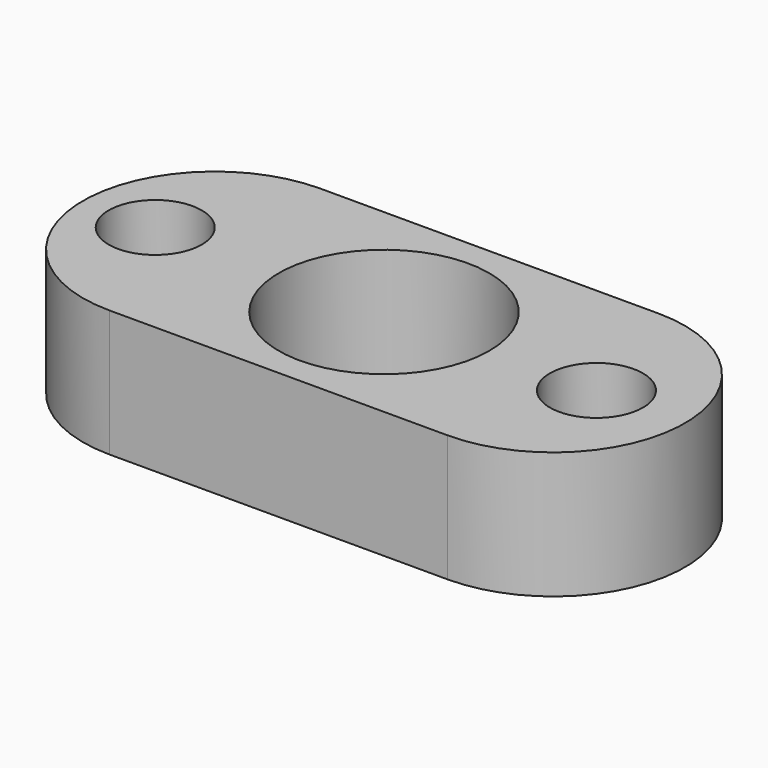
from build123d import *

# Parameters (mm, degrees)
F0_R     = 1.5875
F0_R_2   = 7.90575
F1_DEPTH = 9.525
F2_R     = 3.4925
F2_R_2   = 1.5875
F3_DEPTH = 6.35


with BuildPart() as f1:
    # F0 (on Top) → F1 (new body)
    with BuildSketch(Plane.XY):
        with BuildLine():
            Line((25.4, 22.606), (0, 22.606))
            ThreePointArc((0, 22.606), (-9.906, 12.7), (0, 2.794))
            Line((0, 2.794), (25.4, 2.794))
            ThreePointArc((25.4, 2.794), (35.306, 12.7), (25.4, 22.606))
        make_face()
        with Locations((-4.480041, 12.7)):
            Circle(F0_R, mode=Mode.SUBTRACT)
        with Locations((12.7, 12.7)):
            Circle(F0_R_2, mode=Mode.SUBTRACT)
        with Locations((28.654418, 12.7)):
            Circle(F0_R, mode=Mode.SUBTRACT)
    extrude(amount=F1_DEPTH)

    # F2 (on face) → F3 (cut)
    with BuildSketch(Plane.XY.offset(9.525)):
        with Locations((-4.480041, 12.7)):
            Circle(F2_R)
        with Locations((-4.480041, 12.7)):
            Circle(F2_R_2, mode=Mode.SUBTRACT)
        with Locations((28.654418, 12.7)):
            Circle(F2_R)
        with Locations((28.654418, 12.7)):
            Circle(F2_R_2, mode=Mode.SUBTRACT)
    extrude(amount=-F3_DEPTH, mode=Mode.SUBTRACT)


solid = f1.part
